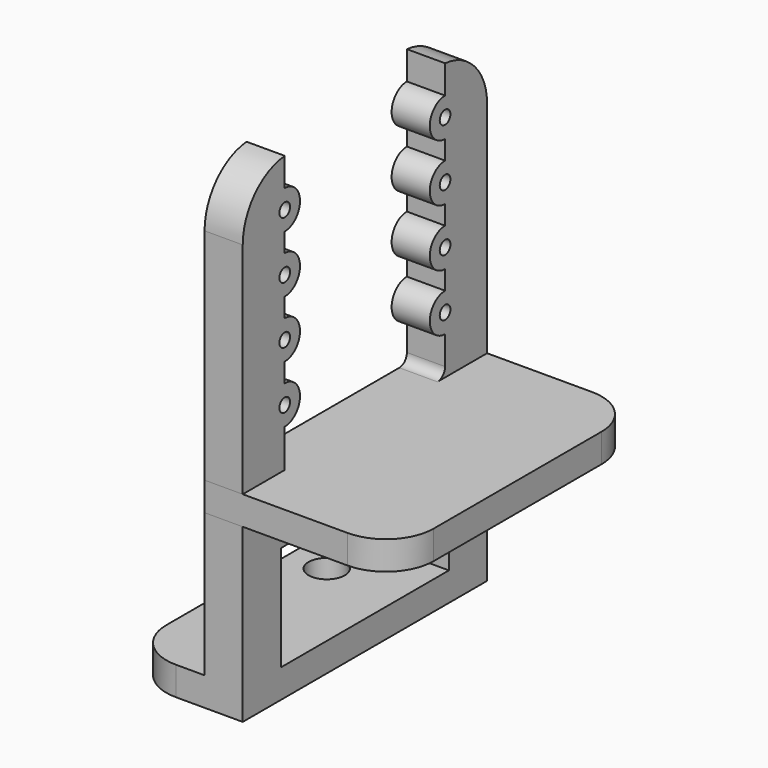
from build123d import *

# Parameters (mm, degrees)
CYLINDER003_R     = 1.5
CYLINDER003_DEPTH = 10
ARRAY002_Y_COUNT  = 2
ARRAY002_Y_PITCH  = 20
CYLINDER001_R     = 0.7
CYLINDER001_DEPTH = 4
ARRAY001_Y_COUNT  = 2
ARRAY001_Y_PITCH  = 21
ARRAY001_Z_COUNT  = 4
ARRAY001_Z_PITCH  = 6
BOX001_W          = 4
BOX001_H          = 21
BOX001_DEPTH      = 74
BOX_W             = 4
BOX_H             = 32
BOX_DEPTH         = 36
FILLET001_R       = 6
FILLET004_R       = 1
CYLINDER_R        = 2
CYLINDER_DEPTH    = 4
ARRAY_Y_COUNT     = 2
ARRAY_Y_PITCH     = 21
ARRAY_Z_COUNT     = 4
ARRAY_Z_PITCH     = 6
CYLINDER002_R     = 1.9
CYLINDER002_DEPTH = 10
BOX002_W          = 4
BOX002_H          = 5
BOX002_DEPTH      = 14
BOX003_W          = 12
BOX003_H          = 32
BOX003_DEPTH      = 3
FILLET_R          = 5
BOX004_W          = 20
BOX004_H          = 32
BOX004_DEPTH      = 3
FILLET005_R       = 5


with BuildPart() as middle_bolt_hole_array:
    # Cylinder003 → Cylinder003 (new body)
    with BuildSketch(Plane(origin=(0, 0, 0), x_dir=(0, 0, -1), z_dir=(1, 0, 0))):
        Circle(CYLINDER003_R)
    extrude(amount=CYLINDER003_DEPTH)

    # Array002 Y: middle bolt hole array ×2


with BuildPart() as middle_bolt_hole_array_1:
    add(middle_bolt_hole_array.part)
    with Locations(*[(0, i * ARRAY002_Y_PITCH, 0) for i in range(1, ARRAY002_Y_COUNT)]):
        add(middle_bolt_hole_array.part)


with BuildPart() as middle_bolt_hole_array_2:
    # Array002 placement: moved
    add(middle_bolt_hole_array_1.part.moved(Location((-5, -10, 3.5))))


with BuildPart() as camera_hole_fusion:
    # Cylinder001 → Cylinder001 (new body)
    with BuildSketch(Plane(origin=(0, 0, 0), x_dir=(0, 0, -1), z_dir=(1, 0, 0))):
        Circle(CYLINDER001_R)
    extrude(amount=CYLINDER001_DEPTH)

    # Array001 Y: camera hole fusion ×2


with BuildPart() as camera_hole_fusion_1:
    add(camera_hole_fusion.part)
    with Locations(*[(0, i * ARRAY001_Y_PITCH, 0) for i in range(1, ARRAY001_Y_COUNT)]):
        add(camera_hole_fusion.part)

    # Array001 Z: camera hole fusion ×4


with BuildPart() as camera_hole_fusion_2:
    add(camera_hole_fusion_1.part)
    with Locations(*[(0, 0, i * ARRAY001_Z_PITCH) for i in range(1, ARRAY001_Z_COUNT)]):
        add(camera_hole_fusion_1.part)


with BuildPart() as camera_hole_fusion_3:
    # Array001 placement: moved
    add(camera_hole_fusion_2.part.moved(Location((0, -10.5, 13))))

    # Fusion003002: union middle bolt hole array
    add(middle_bolt_hole_array_2.part)


with BuildPart() as camera_plate_hole:
    # Box001 → Box001 (new body)
    with BuildSketch(Plane(origin=(0, -10.5, 7), x_dir=(1, 0, 0), z_dir=(0, 0, 1))):
        with Locations((2, 10.5)):
            Rectangle(BOX001_W, BOX001_H)
    extrude(amount=BOX001_DEPTH)


with BuildPart() as camera_plate_cut_fillet:
    # Box → Box (new body)
    with BuildSketch(Plane(origin=(0, -16, 0), x_dir=(1, 0, 0), z_dir=(0, 0, 1))):
        with Locations((2, 16)):
            Rectangle(BOX_W, BOX_H)
    extrude(amount=BOX_DEPTH)

    # Fillet001
    fillet001_edges = [camera_plate_cut_fillet.edges().sort_by_distance(p)[0] for p in [
        (2, -16, 36),
        (2, 16, 36),
    ]]
    fillet(fillet001_edges, radius=FILLET001_R)

    # Cut001: cut camera plate hole
    add(camera_plate_hole.part, mode=Mode.SUBTRACT)

    # Fillet004
    fillet004_edges = [camera_plate_cut_fillet.edges().sort_by_distance(p)[0] for p in [
        (2, 10.5, 7),
        (2, 16, 0),
    ]]
    fillet(fillet004_edges, radius=FILLET004_R)


with BuildPart() as camera_holder_cut:
    # Cylinder → Cylinder (new body)
    with BuildSketch(Plane(origin=(0, 0, 0), x_dir=(0, 0, -1), z_dir=(1, 0, 0))):
        Circle(CYLINDER_R)
    extrude(amount=CYLINDER_DEPTH)

    # Array Y: camera holder cut ×2


with BuildPart() as camera_holder_cut_1:
    add(camera_holder_cut.part)
    with Locations(*[(0, i * ARRAY_Y_PITCH, 0) for i in range(1, ARRAY_Y_COUNT)]):
        add(camera_holder_cut.part)

    # Array Z: camera holder cut ×4


with BuildPart() as camera_holder_cut_2:
    add(camera_holder_cut_1.part)
    with Locations(*[(0, 0, i * ARRAY_Z_PITCH) for i in range(1, ARRAY_Z_COUNT)]):
        add(camera_holder_cut_1.part)


with BuildPart() as camera_holder_cut_3:
    # Array placement: moved
    add(camera_holder_cut_2.part.moved(Location((0, -10.5, 13))))

    # Fusion: union camera plate cut fillet
    add(camera_plate_cut_fillet.part)

    # Cut: cut camera hole fusion
    add(camera_hole_fusion_3.part, mode=Mode.SUBTRACT)


with BuildPart() as camera_holder_cut_4:
    # Cut placement: moved
    add(camera_holder_cut_3.part.moved(Location((0, 0, 14))))


with BuildPart() as bottom_bolt_hole:
    # Cylinder002 → Cylinder002 (new body)
    with BuildSketch(Plane(origin=(0, -5, 0), x_dir=(1, 0, 0), z_dir=(0, 0, 1))):
        Circle(CYLINDER002_R)
    extrude(amount=CYLINDER002_DEPTH)


with BuildPart() as bottom_hole_fusion:
    # Part__Mirroring001: instance of bottom bolt hole
    add(bottom_bolt_hole.part.mirror(Plane(origin=(0, 0, 0), x_dir=(1, 0, 0), z_dir=(0, 1, 0))))

    # Fusion002: union bottom bolt hole
    add(bottom_bolt_hole.part)


with BuildPart() as bottom_hole_fusion_1:
    # Fusion002 placement: moved
    add(bottom_hole_fusion.part.moved(Location((-4, 0, 0))))


with BuildPart() as side_cube:
    # Box002 → Box002 (new body)
    with BuildSketch(Plane(origin=(0, -16, 0), x_dir=(1, 0, 0), z_dir=(0, 0, 1))):
        with Locations((2, 2.5)):
            Rectangle(BOX002_W, BOX002_H)
    extrude(amount=BOX002_DEPTH)


with BuildPart() as bottom_cube_fillet:
    # Box003 → Box003 (new body)
    with BuildSketch(Plane(origin=(-8, -16, 0), x_dir=(1, 0, 0), z_dir=(0, 0, 1))):
        with Locations((6, 16)):
            Rectangle(BOX003_W, BOX003_H)
    extrude(amount=BOX003_DEPTH)

    # Fillet
    fillet_edges = [bottom_cube_fillet.edges().sort_by_distance(p)[0] for p in [
        (-8, -16, 1.5),
        (-8, 16, 1.5),
    ]]
    fillet(fillet_edges, radius=FILLET_R)


with BuildPart() as camera_holder_with_stand001:
    # Part__Mirroring: instance of side cube
    add(side_cube.part.mirror(Plane(origin=(0, 0, 0), x_dir=(1, 0, 0), z_dir=(0, 1, 0))))

    # Fusion001: union side cube, bottom cube fillet
    add(side_cube.part)
    add(bottom_cube_fillet.part)

    # Cut002: cut bottom hole fusion
    add(bottom_hole_fusion_1.part, mode=Mode.SUBTRACT)

    # Fusion003: union camera holder cut
    add(camera_holder_cut_4.part)


with BuildPart() as obj1:
    # Box004 → Box004 (new body)
    with BuildSketch(Plane(origin=(0, -16, 18), x_dir=(1, 0, 0), z_dir=(0, 0, 1))):
        with Locations((10, 16)):
            Rectangle(BOX004_W, BOX004_H)
    extrude(amount=BOX004_DEPTH)

    # Fillet005
    fillet005_edges = [obj1.edges().sort_by_distance(p)[0] for p in [
        (20, -16, 19.5),
        (20, 16, 19.5),
    ]]
    fillet(fillet005_edges, radius=FILLET005_R)


solid = Compound([camera_holder_with_stand001.part, obj1.part])
